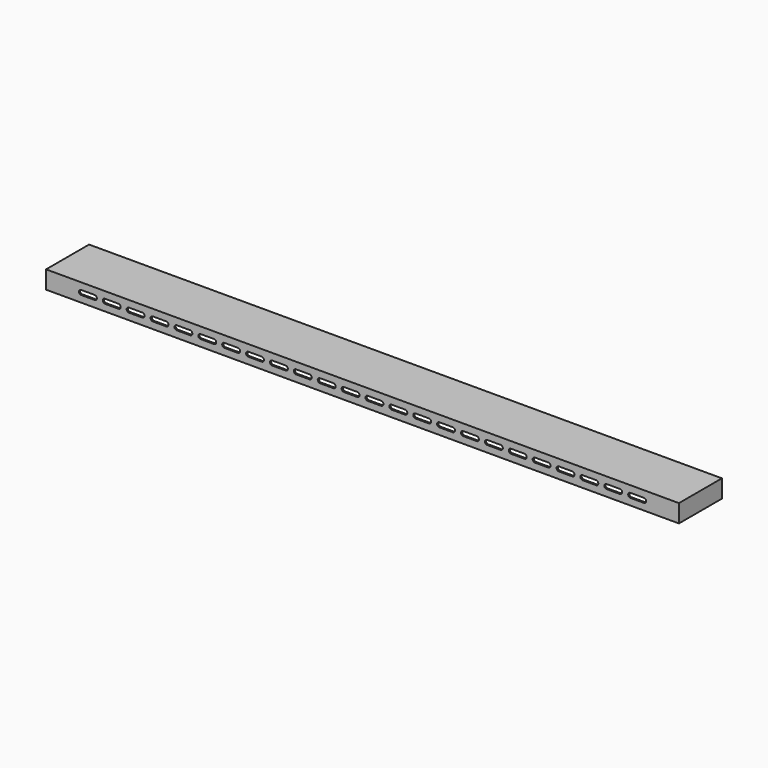
from build123d import *

# Parameters (mm, degrees)
F0_W     = 114.3
F0_H     = 38.1
F1_DEPTH = 673.1
F2_T     = -3.175
F4_DEPTH = 114.301


with BuildPart() as f1:
    # F0 (on Right) → F1 (new body, symmetric)
    with BuildSketch(Plane.YZ):
        with Locations((57.15, 19.05)):
            Rectangle(F0_W, F0_H)
    extrude(amount=F1_DEPTH, both=True)

    # F2
    f2_openings = [f1.faces().sort_by_distance(p)[0] for p in [
        (0, 57.15, 0),
    ]]
    offset(amount=F2_T, openings=f2_openings)

    # F3 (on face) → F4 (cut, through all)
    with BuildSketch(Plane.XZ):
        with BuildLine():
            Line((-598.4875, 14.2875), (-569.9125, 14.2875))
            ThreePointArc((-569.9125, 14.2875), (-566.544904, 15.682404), (-565.15, 19.05))
            ThreePointArc((-565.15, 19.05), (-566.544904, 22.417596), (-569.9125, 23.8125))
            Line((-569.9125, 23.8125), (-598.4875, 23.8125))
            ThreePointArc((-598.4875, 23.8125), (-601.855096, 22.417596), (-603.25, 19.05))
            ThreePointArc((-603.25, 19.05), (-601.855096, 15.682404), (-598.4875, 14.2875))
        make_face()
        with BuildLine():
            ThreePointArc((-514.35, 19.05), (-515.744904, 22.417596), (-519.1125, 23.8125))
            Line((-519.1125, 23.8125), (-547.6875, 23.8125))
            ThreePointArc((-547.6875, 23.8125), (-551.055096, 22.417596), (-552.45, 19.05))
            ThreePointArc((-552.45, 19.05), (-551.055096, 15.682404), (-547.6875, 14.2875))
            Line((-547.6875, 14.2875), (-519.1125, 14.2875))
            ThreePointArc((-519.1125, 14.2875), (-515.744904, 15.682404), (-514.35, 19.05))
        make_face()
        with BuildLine():
            ThreePointArc((-463.55, 19.05), (-464.944904, 22.417596), (-468.3125, 23.8125))
            Line((-468.3125, 23.8125), (-496.8875, 23.8125))
            ThreePointArc((-496.8875, 23.8125), (-500.255096, 22.417596), (-501.65, 19.05))
            ThreePointArc((-501.65, 19.05), (-500.255096, 15.682404), (-496.8875, 14.2875))
            Line((-496.8875, 14.2875), (-468.3125, 14.2875))
            ThreePointArc((-468.3125, 14.2875), (-464.944904, 15.682404), (-463.55, 19.05))
        make_face()
        with BuildLine():
            ThreePointArc((-412.75, 19.05), (-414.144904, 22.417596), (-417.5125, 23.8125))
            Line((-417.5125, 23.8125), (-446.0875, 23.8125))
            ThreePointArc((-446.0875, 23.8125), (-449.455096, 22.417596), (-450.85, 19.05))
            ThreePointArc((-450.85, 19.05), (-449.455096, 15.682404), (-446.0875, 14.2875))
            Line((-446.0875, 14.2875), (-417.5125, 14.2875))
            ThreePointArc((-417.5125, 14.2875), (-414.144904, 15.682404), (-412.75, 19.05))
        make_face()
        with BuildLine():
            ThreePointArc((-361.95, 19.05), (-363.344904, 22.417596), (-366.7125, 23.8125))
            Line((-366.7125, 23.8125), (-395.2875, 23.8125))
            ThreePointArc((-395.2875, 23.8125), (-398.655096, 22.417596), (-400.05, 19.05))
            ThreePointArc((-400.05, 19.05), (-398.655096, 15.682404), (-395.2875, 14.2875))
            Line((-395.2875, 14.2875), (-366.7125, 14.2875))
            ThreePointArc((-366.7125, 14.2875), (-363.344904, 15.682404), (-361.95, 19.05))
        make_face()
        with BuildLine():
            ThreePointArc((-311.15, 19.05), (-312.544904, 22.417596), (-315.9125, 23.8125))
            Line((-315.9125, 23.8125), (-344.4875, 23.8125))
            ThreePointArc((-344.4875, 23.8125), (-347.855096, 22.417596), (-349.25, 19.05))
            ThreePointArc((-349.25, 19.05), (-347.855096, 15.682404), (-344.4875, 14.2875))
            Line((-344.4875, 14.2875), (-315.9125, 14.2875))
            ThreePointArc((-315.9125, 14.2875), (-312.544904, 15.682404), (-311.15, 19.05))
        make_face()
        with BuildLine():
            ThreePointArc((-260.35, 19.05), (-261.744904, 22.417596), (-265.1125, 23.8125))
            Line((-265.1125, 23.8125), (-293.6875, 23.8125))
            ThreePointArc((-293.6875, 23.8125), (-297.055096, 22.417596), (-298.45, 19.05))
            ThreePointArc((-298.45, 19.05), (-297.055096, 15.682404), (-293.6875, 14.2875))
            Line((-293.6875, 14.2875), (-265.1125, 14.2875))
            ThreePointArc((-265.1125, 14.2875), (-261.744904, 15.682404), (-260.35, 19.05))
        make_face()
        with BuildLine():
            ThreePointArc((-209.55, 19.05), (-210.944904, 22.417596), (-214.3125, 23.8125))
            Line((-214.3125, 23.8125), (-242.8875, 23.8125))
            ThreePointArc((-242.8875, 23.8125), (-246.255096, 22.417596), (-247.65, 19.05))
            ThreePointArc((-247.65, 19.05), (-246.255096, 15.682404), (-242.8875, 14.2875))
            Line((-242.8875, 14.2875), (-214.3125, 14.2875))
            ThreePointArc((-214.3125, 14.2875), (-210.944904, 15.682404), (-209.55, 19.05))
        make_face()
        with BuildLine():
            ThreePointArc((-158.75, 19.05), (-160.144904, 22.417596), (-163.5125, 23.8125))
            Line((-163.5125, 23.8125), (-192.0875, 23.8125))
            ThreePointArc((-192.0875, 23.8125), (-195.455096, 22.417596), (-196.85, 19.05))
            ThreePointArc((-196.85, 19.05), (-195.455096, 15.682404), (-192.0875, 14.2875))
            Line((-192.0875, 14.2875), (-163.5125, 14.2875))
            ThreePointArc((-163.5125, 14.2875), (-160.144904, 15.682404), (-158.75, 19.05))
        make_face()
        with BuildLine():
            ThreePointArc((-107.95, 19.05), (-109.344904, 22.417596), (-112.7125, 23.8125))
            Line((-112.7125, 23.8125), (-141.2875, 23.8125))
            ThreePointArc((-141.2875, 23.8125), (-144.655096, 22.417596), (-146.05, 19.05))
            ThreePointArc((-146.05, 19.05), (-144.655096, 15.682404), (-141.2875, 14.2875))
            Line((-141.2875, 14.2875), (-112.7125, 14.2875))
            ThreePointArc((-112.7125, 14.2875), (-109.344904, 15.682404), (-107.95, 19.05))
        make_face()
        with BuildLine():
            ThreePointArc((-57.15, 19.05), (-58.544904, 22.417596), (-61.9125, 23.8125))
            Line((-61.9125, 23.8125), (-90.4875, 23.8125))
            ThreePointArc((-90.4875, 23.8125), (-93.855096, 22.417596), (-95.25, 19.05))
            ThreePointArc((-95.25, 19.05), (-93.855096, 15.682404), (-90.4875, 14.2875))
            Line((-90.4875, 14.2875), (-61.9125, 14.2875))
            ThreePointArc((-61.9125, 14.2875), (-58.544904, 15.682404), (-57.15, 19.05))
        make_face()
        with BuildLine():
            ThreePointArc((-6.35, 19.05), (-7.744904, 22.417596), (-11.1125, 23.8125))
            Line((-11.1125, 23.8125), (-39.6875, 23.8125))
            ThreePointArc((-39.6875, 23.8125), (-43.055096, 22.417596), (-44.45, 19.05))
            ThreePointArc((-44.45, 19.05), (-43.055096, 15.682404), (-39.6875, 14.2875))
            Line((-39.6875, 14.2875), (-11.1125, 14.2875))
            ThreePointArc((-11.1125, 14.2875), (-7.744904, 15.682404), (-6.35, 19.05))
        make_face()
        with BuildLine():
            ThreePointArc((44.45, 19.05), (43.055096, 22.417596), (39.6875, 23.8125))
            Line((39.6875, 23.8125), (11.1125, 23.8125))
            ThreePointArc((11.1125, 23.8125), (7.744904, 22.417596), (6.35, 19.05))
            ThreePointArc((6.35, 19.05), (7.744904, 15.682404), (11.1125, 14.2875))
            Line((11.1125, 14.2875), (39.6875, 14.2875))
            ThreePointArc((39.6875, 14.2875), (43.055096, 15.682404), (44.45, 19.05))
        make_face()
        with BuildLine():
            ThreePointArc((95.25, 19.05), (93.855096, 22.417596), (90.4875, 23.8125))
            Line((90.4875, 23.8125), (61.9125, 23.8125))
            ThreePointArc((61.9125, 23.8125), (58.544904, 22.417596), (57.15, 19.05))
            ThreePointArc((57.15, 19.05), (58.544904, 15.682404), (61.9125, 14.2875))
            Line((61.9125, 14.2875), (90.4875, 14.2875))
            ThreePointArc((90.4875, 14.2875), (93.855096, 15.682404), (95.25, 19.05))
        make_face()
        with BuildLine():
            ThreePointArc((146.05, 19.05), (144.655096, 22.417596), (141.2875, 23.8125))
            Line((141.2875, 23.8125), (112.7125, 23.8125))
            ThreePointArc((112.7125, 23.8125), (109.344904, 22.417596), (107.95, 19.05))
            ThreePointArc((107.95, 19.05), (109.344904, 15.682404), (112.7125, 14.2875))
            Line((112.7125, 14.2875), (141.2875, 14.2875))
            ThreePointArc((141.2875, 14.2875), (144.655096, 15.682404), (146.05, 19.05))
        make_face()
        with BuildLine():
            ThreePointArc((196.85, 19.05), (195.455096, 22.417596), (192.0875, 23.8125))
            Line((192.0875, 23.8125), (163.5125, 23.8125))
            ThreePointArc((163.5125, 23.8125), (160.144904, 22.417596), (158.75, 19.05))
            ThreePointArc((158.75, 19.05), (160.144904, 15.682404), (163.5125, 14.2875))
            Line((163.5125, 14.2875), (192.0875, 14.2875))
            ThreePointArc((192.0875, 14.2875), (195.455096, 15.682404), (196.85, 19.05))
        make_face()
        with BuildLine():
            ThreePointArc((247.65, 19.05), (246.255096, 22.417596), (242.8875, 23.8125))
            Line((242.8875, 23.8125), (214.3125, 23.8125))
            ThreePointArc((214.3125, 23.8125), (210.944904, 22.417596), (209.55, 19.05))
            ThreePointArc((209.55, 19.05), (210.944904, 15.682404), (214.3125, 14.2875))
            Line((214.3125, 14.2875), (242.8875, 14.2875))
            ThreePointArc((242.8875, 14.2875), (246.255096, 15.682404), (247.65, 19.05))
        make_face()
        with BuildLine():
            ThreePointArc((298.45, 19.05), (297.055096, 22.417596), (293.6875, 23.8125))
            Line((293.6875, 23.8125), (265.1125, 23.8125))
            ThreePointArc((265.1125, 23.8125), (261.744904, 22.417596), (260.35, 19.05))
            ThreePointArc((260.35, 19.05), (261.744904, 15.682404), (265.1125, 14.2875))
            Line((265.1125, 14.2875), (293.6875, 14.2875))
            ThreePointArc((293.6875, 14.2875), (297.055096, 15.682404), (298.45, 19.05))
        make_face()
        with BuildLine():
            ThreePointArc((349.25, 19.05), (347.855096, 22.417596), (344.4875, 23.8125))
            Line((344.4875, 23.8125), (315.9125, 23.8125))
            ThreePointArc((315.9125, 23.8125), (312.544904, 22.417596), (311.15, 19.05))
            ThreePointArc((311.15, 19.05), (312.544904, 15.682404), (315.9125, 14.2875))
            Line((315.9125, 14.2875), (344.4875, 14.2875))
            ThreePointArc((344.4875, 14.2875), (347.855096, 15.682404), (349.25, 19.05))
        make_face()
        with BuildLine():
            ThreePointArc((400.05, 19.05), (398.655096, 22.417596), (395.2875, 23.8125))
            Line((395.2875, 23.8125), (366.7125, 23.8125))
            ThreePointArc((366.7125, 23.8125), (363.344904, 22.417596), (361.95, 19.05))
            ThreePointArc((361.95, 19.05), (363.344904, 15.682404), (366.7125, 14.2875))
            Line((366.7125, 14.2875), (395.2875, 14.2875))
            ThreePointArc((395.2875, 14.2875), (398.655096, 15.682404), (400.05, 19.05))
        make_face()
        with BuildLine():
            ThreePointArc((450.85, 19.05), (449.455096, 22.417596), (446.0875, 23.8125))
            Line((446.0875, 23.8125), (417.5125, 23.8125))
            ThreePointArc((417.5125, 23.8125), (414.144904, 22.417596), (412.75, 19.05))
            ThreePointArc((412.75, 19.05), (414.144904, 15.682404), (417.5125, 14.2875))
            Line((417.5125, 14.2875), (446.0875, 14.2875))
            ThreePointArc((446.0875, 14.2875), (449.455096, 15.682404), (450.85, 19.05))
        make_face()
        with BuildLine():
            ThreePointArc((501.65, 19.05), (500.255096, 22.417596), (496.8875, 23.8125))
            Line((496.8875, 23.8125), (468.3125, 23.8125))
            ThreePointArc((468.3125, 23.8125), (464.944904, 22.417596), (463.55, 19.05))
            ThreePointArc((463.55, 19.05), (464.944904, 15.682404), (468.3125, 14.2875))
            Line((468.3125, 14.2875), (496.8875, 14.2875))
            ThreePointArc((496.8875, 14.2875), (500.255096, 15.682404), (501.65, 19.05))
        make_face()
        with BuildLine():
            ThreePointArc((552.45, 19.05), (551.055096, 22.417596), (547.6875, 23.8125))
            Line((547.6875, 23.8125), (519.1125, 23.8125))
            ThreePointArc((519.1125, 23.8125), (515.744904, 22.417596), (514.35, 19.05))
            ThreePointArc((514.35, 19.05), (515.744904, 15.682404), (519.1125, 14.2875))
            Line((519.1125, 14.2875), (547.6875, 14.2875))
            ThreePointArc((547.6875, 14.2875), (551.055096, 15.682404), (552.45, 19.05))
        make_face()
        with BuildLine():
            ThreePointArc((603.25, 19.05), (601.855096, 22.417596), (598.4875, 23.8125))
            Line((598.4875, 23.8125), (569.9125, 23.8125))
            ThreePointArc((569.9125, 23.8125), (566.544904, 22.417596), (565.15, 19.05))
            ThreePointArc((565.15, 19.05), (566.544904, 15.682404), (569.9125, 14.2875))
            Line((569.9125, 14.2875), (598.4875, 14.2875))
            ThreePointArc((598.4875, 14.2875), (601.855096, 15.682404), (603.25, 19.05))
        make_face()
    extrude(amount=-F4_DEPTH, mode=Mode.SUBTRACT)


solid = f1.part
